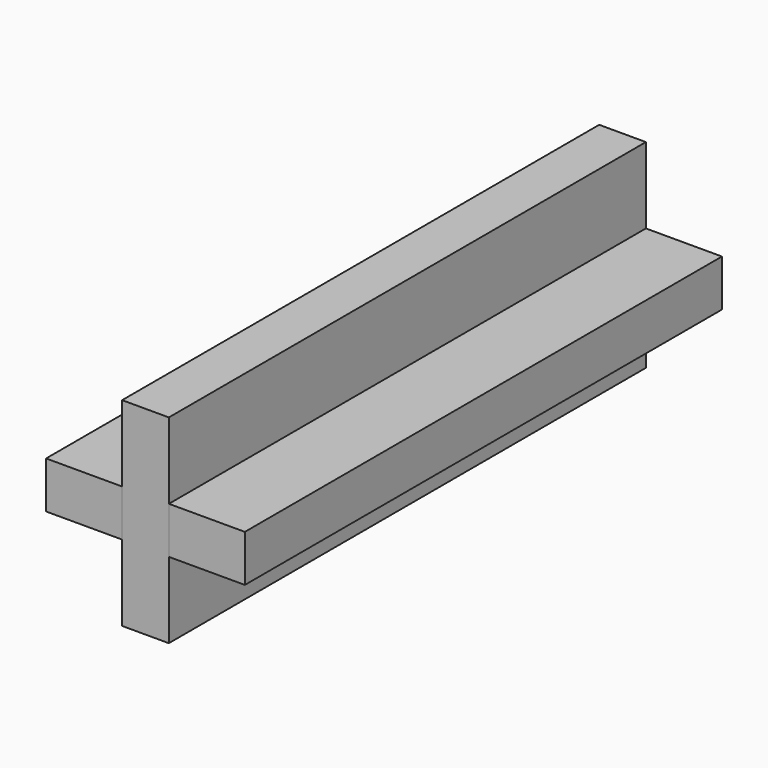
from build123d import *

# Parameters (mm, degrees)
F1_DEPTH = 11.938
F2_W     = 11.938
F2_H     = 19.431
F3_DEPTH = 152.4
F4_W     = 11.938
F4_H     = 76.2
F5_DEPTH = 11.938


with BuildPart() as f1:
    # F0 (on Top) → F1 (new body)
    with BuildSketch(Plane.XY):
        Polygon((-23.423575, 152.4), (-23.423575, 0), (-4.007815, 0), (-4.007815, 76.2), (7.960665, 76.2), (7.960665, 0), (27.376425, 0), (27.376425, 152.4), align=None)
    extrude(amount=F1_DEPTH)

    # F2 (on face) → F3 (join)
    with BuildSketch(Plane(origin=(0, 152.4, 0), x_dir=(-1, 0, 0), z_dir=(0, 1, 0))):
        with Locations((-1.976425, 21.6535)):
            Rectangle(F2_W, F2_H)
        with Locations((-1.976425, -9.7155)):
            Rectangle(F2_W, F2_H)
    extrude(amount=-F3_DEPTH)

    # F4 (on face) → F5 (join)
    with BuildSketch(Plane(origin=(0, 0, 11.938), x_dir=(1, 0, 0), z_dir=(0, 0, -1))):
        with Locations((1.976425, -38.1)):
            Rectangle(F4_W, F4_H)
    extrude(amount=F5_DEPTH)


solid = f1.part
